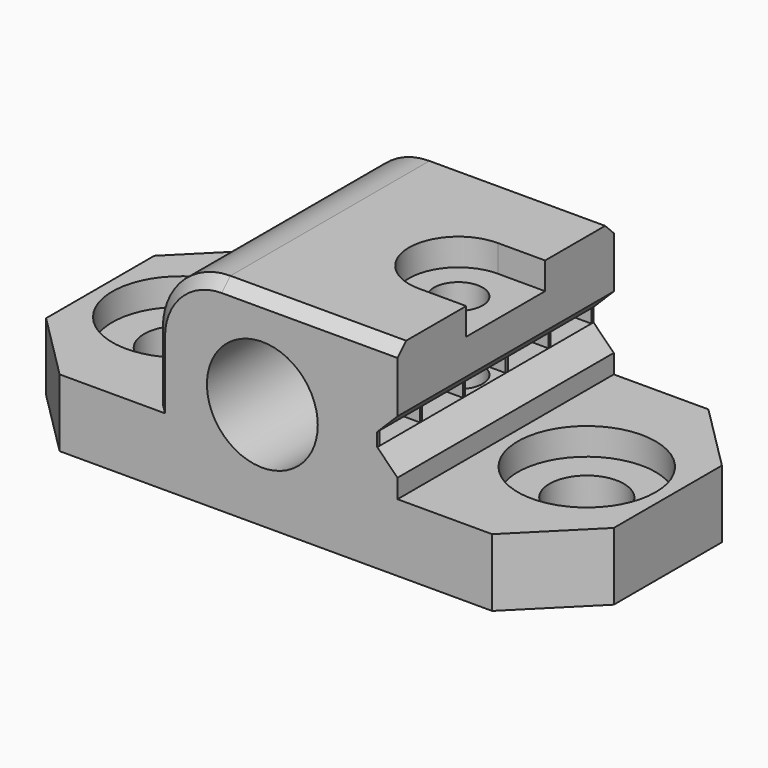
from build123d import *

# Parameters (mm, degrees)
PAD_DEPTH           = 10
SKETCH001_R         = 2.75
SKETCH001_R_2       = 1.8
POCKET_DEPTH        = 15.001
POCKET001_DEPTH     = 3
SKETCH003_R         = 5.1
POCKET002_DEPTH     = 2
SKETCH004_R         = 1.9
PAD001_DEPTH        = 0.2
SKETCH005_R         = 2.95
PAD002_DEPTH        = 0.2
PAD003_DEPTH        = 0.2
LINEARPATTERN_COUNT = 6
LINEARPATTERN_PITCH = 3.96
POCKET003_DEPTH     = 2
CHAMFER_SIZE        = 5
CHAMFER001_SIZE     = 0.8


with BuildPart() as part:
    # Sketch → Pad (new body, symmetric)
    with BuildSketch(Plane.XZ):
        with BuildLine():
            ThreePointArc((3.976179, 8.9), (-4.068927, 7.396182), (4.1, 7.9))
            Line((4.1, 7.9), (8.5, 7.9))
            Line((8.5, 7.9), (10, 6.4))
            Line((10, 6.4), (10, 5))
            Line((10, 5), (22, 5))
            Line((22, 5), (22, 0))
            Line((-20, 0), (22, 0))
            Line((-20, 0), (-20, 5))
            Line((-20, 5), (-8, 5))
            Line((-8, 5), (-8, 10))
            ThreePointArc((-3, 15), (-6.535534, 13.535534), (-8, 10))
            Line((-3, 15), (10, 15))
            Line((10, 15), (10, 10.4))
            Line((8.5, 8.9), (10, 10.4))
            Line((8.5, 8.9), (3.976179, 8.9))
        make_face()
    extrude(amount=PAD_DEPTH, both=True)

    # Sketch001 → Pocket (cut, through all)
    with BuildSketch(Plane(origin=(0, 0, 0), x_dir=(1, 0, 0), z_dir=(0, 0, -1))):
        with Locations((-14, 0)):
            Circle(SKETCH001_R)
        with Locations((16, 0)):
            Circle(SKETCH001_R)
        with Locations((6.5, 0)):
            Circle(SKETCH001_R_2)
    extrude(amount=-POCKET_DEPTH, mode=Mode.SUBTRACT)

    # Sketch002 → Pocket001 (cut)
    with BuildSketch(Plane(origin=(0, 0, 0), x_dir=(1, 0, 0), z_dir=(0, 0, -1))):
        Polygon((6.5, 3.406367), (3.55, 1.703183), (3.55, -1.703183), (6.5, -3.406367), (9.45, -1.703183), (9.45, 1.703183), align=None)
    extrude(amount=-POCKET001_DEPTH, mode=Mode.SUBTRACT)

    # Sketch003 → Pocket002 (cut)
    with BuildSketch(Plane.XY.offset(5)):
        with Locations((-14, 0)):
            Circle(SKETCH003_R)
        with Locations((16, 0)):
            Circle(SKETCH003_R)
    extrude(amount=-POCKET002_DEPTH, mode=Mode.SUBTRACT)

    # Sketch004 → Pad001 (join)
    with BuildSketch(Plane.XY.offset(8.9)):
        with Locations((6.5, 0)):
            Circle(SKETCH004_R)
    extrude(amount=PAD001_DEPTH)

    # Sketch005 → Pad002 (join)
    with BuildSketch(Plane.XY.offset(3)):
        with Locations((6.5, 0)):
            Circle(SKETCH005_R)
    extrude(amount=PAD002_DEPTH)

    # Sketch006 → Pad003 (join)
    with BuildSketch(Plane.XZ.offset(-10)):
        with BuildLine():
            ThreePointArc((4.1, 7.9), (4.068927, 8.403818), (3.976179, 8.9))
            Line((8.5, 8.9), (3.976179, 8.9))
            Line((8.5, 7.9), (8.5, 8.9))
            Line((4.1, 7.9), (8.5, 7.9))
        make_face()
    pad003 = extrude(amount=PAD003_DEPTH)

    # LinearPattern: Pad003 ×6
    with Locations(*[(0, -i * LINEARPATTERN_PITCH, 0) for i in range(1, LINEARPATTERN_COUNT)]):
        add(pad003)

    # Sketch007 → Pocket003 (cut)
    with BuildSketch(Plane.XY.offset(15)):
        with BuildLine():
            ThreePointArc((6.5, 3.65), (2.85, 0), (6.5, -3.65))
            Line((10.5, -3.65), (6.5, -3.65))
            Line((10.5, 3.65), (10.5, -3.65))
            Line((6.5, 3.65), (10.5, 3.65))
        make_face()
    extrude(amount=-POCKET003_DEPTH, mode=Mode.SUBTRACT)

    # Chamfer
    chamfer_edges = [part.edges().sort_by_distance(p)[0] for p in [
        (22, -10, 2.5),
        (-20, -10, 2.5),
        (22, 10, 2.5),
        (-20, 10, 2.5),
    ]]
    chamfer(chamfer_edges, length=CHAMFER_SIZE)

    # Chamfer001
    chamfer001_edges = [part.edges().sort_by_distance(p)[0] for p in [
        (-8, -10, 7.5),
        (-6.535534, -10, 13.535534),
        (3.5, -10, 15),
        (3.5, 10, 15),
        (-6.535534, 10, 13.535534),
        (-8, 10, 7.5),
    ]]
    chamfer(chamfer001_edges, length=CHAMFER001_SIZE)


solid = part.part
